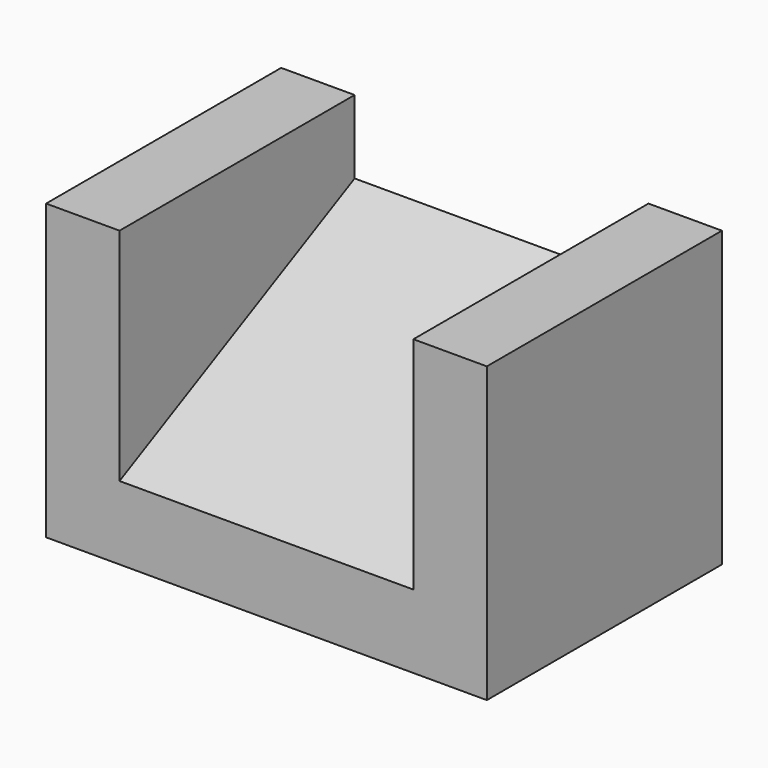
from build123d import *

# Parameters (mm, degrees)
F1_DEPTH = 30
F3_START = -5
F3_DEPTH = 20


with BuildPart() as f1:
    # F0 (on Right) → F1 (new body)
    with BuildSketch(Plane.YZ):
        Polygon((0, 5), (0, 0), (20, 0), (20, 15), align=None)
        Polygon((0, 20), (0, 5), (20, 15), (20, 20), align=None)
    extrude(amount=F1_DEPTH)

    # F2 (on face) → F3 (cut)
    with BuildSketch(Plane.YZ.offset(30).offset(F3_START)):
        Polygon((0, 5), (20, 15), (20, 20), (0, 20), align=None)
    extrude(amount=-F3_DEPTH, mode=Mode.SUBTRACT)


solid = f1.part
